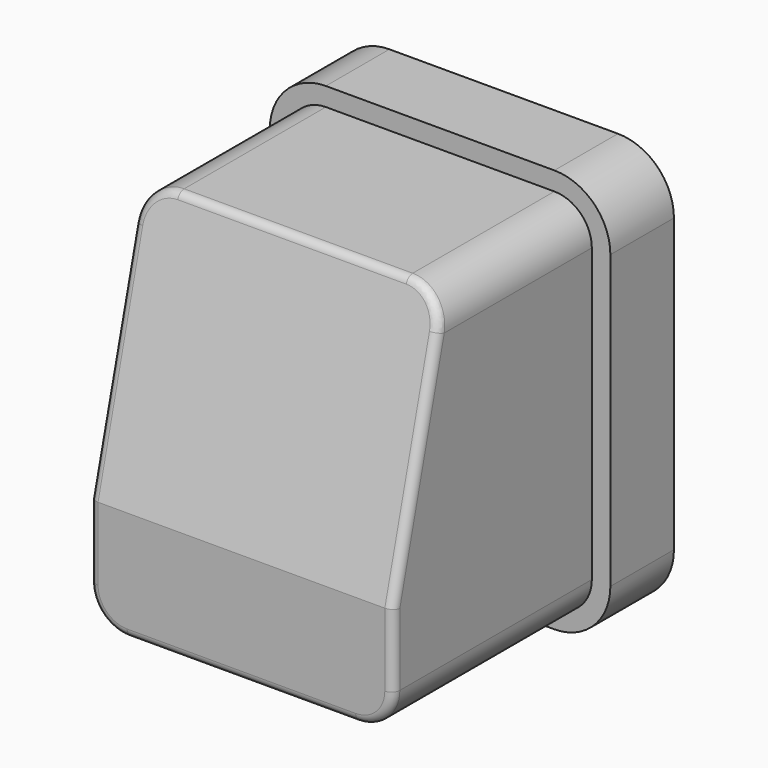
from build123d import *

# Parameters (mm, degrees)
F1_DEPTH = 11.906
F3_DEPTH = 3.81
F5_DEPTH = 14.54711
F7_R     = 0.4


with BuildPart() as f1:
    # F0 (on Front) → F1 (new body)
    with BuildSketch(Plane.XZ):
        with BuildLine():
            Line((5.478281, 8.795274), (-5.478281, 8.795274))
            ThreePointArc((-5.478281, 8.795274), (-6.747731, 8.26945), (-7.273555, 7))
            Line((-7.273555, 7), (-7.273555, -7))
            ThreePointArc((-7.273555, -7), (-6.747731, -8.26945), (-5.478281, -8.795274))
            Line((-5.478281, -8.795274), (5.478281, -8.795274))
            ThreePointArc((5.478281, -8.795274), (6.747731, -8.26945), (7.273555, -7))
            Line((7.273555, -7), (7.273555, 7))
            ThreePointArc((7.273555, 7), (6.747731, 8.26945), (5.478281, 8.795274))
        make_face()
    extrude(amount=-F1_DEPTH)

    # F2 (on face) → F3 (join)
    with BuildSketch(Plane(origin=(0, 11.906, 0), x_dir=(-1, 0, 0), z_dir=(0, 1, 0))):
        with BuildLine():
            ThreePointArc((8.162555, 7), (7.376349, 8.898068), (5.478281, 9.684274))
            Line((5.478281, 9.684274), (-5.478281, 9.684274))
            ThreePointArc((-5.478281, 9.684274), (-7.376349, 8.898068), (-8.162555, 7))
            Line((-8.162555, 7), (-8.162555, -7))
            ThreePointArc((-8.162555, -7), (-7.376349, -8.898068), (-5.478281, -9.684274))
            Line((-5.478281, -9.684274), (5.478281, -9.684274))
            ThreePointArc((5.478281, -9.684274), (7.376349, -8.898068), (8.162555, -7))
            Line((8.162555, -7), (8.162555, 7))
        make_face()
    extrude(amount=F3_DEPTH)

    # F4 (on face) → F5 (cut, through all)
    with BuildSketch(Plane(origin=(-7.273555, 0, 0), x_dir=(0, -1, 0), z_dir=(-1, 0, 0))):
        Polygon((0, -3.496099), (0, 7), (0, 8.795274), (-3.105232, 8.795274), align=None)
    extrude(amount=-F5_DEPTH, mode=Mode.SUBTRACT)

    # F7
    f7_edges = [f1.edges().sort_by_distance(p)[0] for p in [
        (0, 3.105232, 8.795274),
        (6.757507, 2.969901, 8.259598),
        (7.273555, 1.325841, 1.75195),
        (7.273555, 0, -5.24805),
        (6.747731, 0, -8.26945),
        (0, 0, -8.795274),
        (-7.273555, 0, -5.24805),
        (-6.747731, 0, -8.26945),
        (-7.273555, 1.325841, 1.75195),
        (-6.757507, 2.969901, 8.259598),
    ]]
    fillet(f7_edges, radius=F7_R)


solid = f1.part
